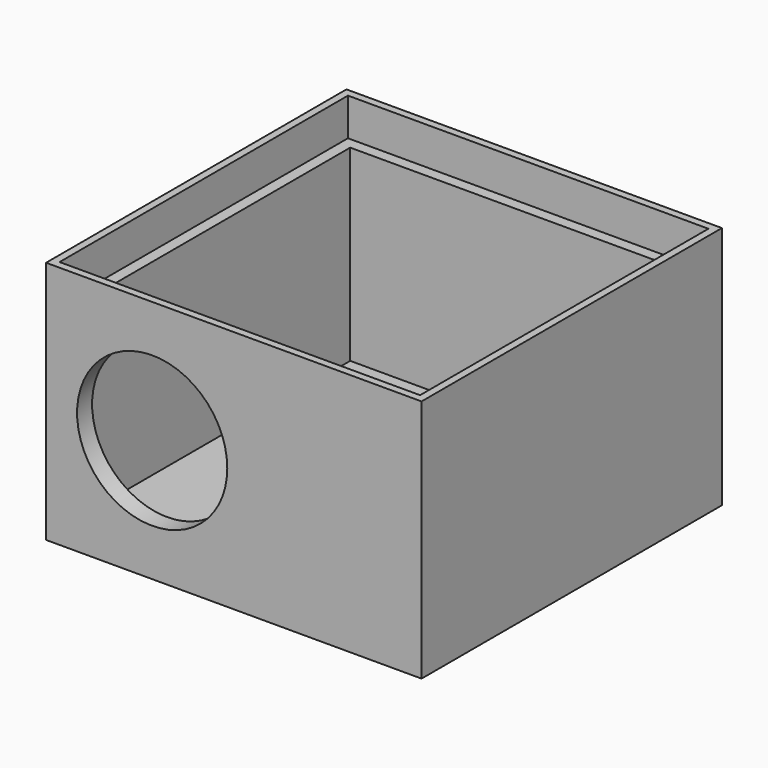
from build123d import *

# Parameters (mm, degrees)
F0_W     = 50.8
F0_H     = 50.8
F1_DEPTH = 2.54
F2_W     = 50.8
F2_H     = 50.8
F2_W_2   = 48.768
F2_H_2   = 48.768
F3_DEPTH = 30.48
F4_W     = 50.8
F4_H     = 50.8
F4_W_2   = 48.768
F4_H_2   = 48.768
F4_W_3   = 45.72
F4_H_3   = 45.72
F5_DEPTH = 25.4
F6_R     = 10.16
F7_DEPTH = 25.4


with BuildPart() as f1:
    # F0 (on Top) → F1 (new body)
    with BuildSketch(Plane.XY):
        with Locations((25.4, 25.4)):
            Rectangle(F0_W, F0_H)
    extrude(amount=F1_DEPTH)

    # F2 (on face) → F3 (join)
    with BuildSketch(Plane.XY.offset(2.54)):
        with Locations((25.4, 25.4)):
            Rectangle(F2_W, F2_H)
        with Locations((25.4, 25.4)):
            Rectangle(F2_W_2, F2_H_2, mode=Mode.SUBTRACT)
    extrude(amount=F3_DEPTH)

    # F4 (on face) → F5 (join)
    with BuildSketch(Plane.XY.offset(2.54)):
        with Locations((25.4, 25.4)):
            Rectangle(F4_W, F4_H)
        with Locations((25.4, 25.4)):
            Rectangle(F4_W_2, F4_H_2, mode=Mode.SUBTRACT)
        with Locations((25.4, 25.4)):
            Rectangle(F4_W_2, F4_H_2)
        with Locations((25.4, 25.4)):
            Rectangle(F4_W_3, F4_H_3, mode=Mode.SUBTRACT)
    extrude(amount=F5_DEPTH)

    # F6 (on face) → F7 (cut)
    with BuildSketch(Plane.XZ):
        with Locations((14.354912, 16.51)):
            Circle(F6_R)
    extrude(amount=-F7_DEPTH, mode=Mode.SUBTRACT)


solid = f1.part
